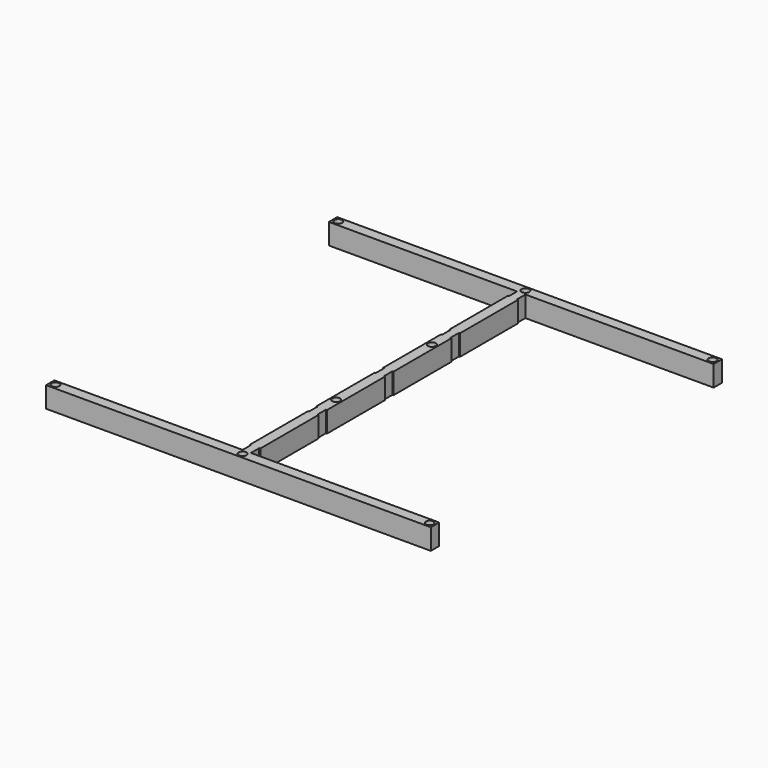
from build123d import *

# Parameters (mm, degrees)
F0_R     = 19.05
F0_W     = 2.54
F0_H     = 6.35
F1_DEPTH = 101.6


with BuildPart() as f1:
    # F0 (on Top) → F1 (new body)
    with BuildSketch(Plane.XY):
        Polygon((-965.2, 1680.237689), (-50.8, 1680.237689), (-48.26, 1680.237689), (-48.26, 1686.587689), (-45.72, 1686.587689), (-45.72, 1680.237689), (-45.72, 1629.437689), (-45.72, 1623.087689), (-48.26, 1623.087689), (-48.26, 1629.437689), (-50.8, 1629.437689), (-50.8, 1273.837689), (-48.26, 1273.837689), (-48.26, 1280.187689), (-45.72, 1280.187689), (-45.72, 1273.837689), (-45.72, 1223.037689), (-45.72, 1216.687689), (-48.26, 1216.687689), (-48.26, 1223.037689), (-50.8, 1223.037689), (-50.8, 1134.137689), (-50.8, 867.437689), (-48.26, 867.437689), (-48.26, 873.787689), (-45.72, 873.787689), (-45.72, 867.437689), (-45.72, 816.637689), (-45.72, 810.287689), (-48.26, 810.287689), (-48.26, 816.637689), (-50.8, 816.637689), (-50.8, 549.937689), (-50.8, 461.037689), (-48.26, 461.037689), (-48.26, 467.387689), (-45.72, 467.387689), (-45.72, 461.037689), (-45.72, 410.237689), (-45.72, 403.887689), (-48.26, 403.887689), (-48.26, 410.237689), (-50.8, 410.237689), (-50.8, 54.637689), (-48.26, 54.637689), (-48.26, 60.987689), (-45.72, 60.987689), (-45.72, 54.637689), (-45.72, 3.837689), (-45.72, -2.512311), (-48.26, -2.512311), (-48.26, 3.837689), (-50.8, 3.837689), (-939.8, 3.837689), (-965.2, 3.837689), (-965.2, -46.962311), (-50.8, -46.962311), (0, -46.962311), (914.4, -46.962311), (914.4, 3.837689), (0, 3.837689), (-2.54, 3.837689), (-2.54, -2.512311), (-5.08, -2.512311), (-5.08, 3.837689), (-5.08, 54.637689), (-5.08, 60.987689), (-2.54, 60.987689), (-2.54, 54.637689), (0, 54.637689), (0, 410.237689), (-2.54, 410.237689), (-2.54, 403.887689), (-5.08, 403.887689), (-5.08, 410.237689), (-5.08, 461.037689), (-5.08, 467.387689), (-2.54, 467.387689), (-2.54, 461.037689), (0, 461.037689), (0, 816.637689), (-2.54, 816.637689), (-2.54, 810.287689), (-5.08, 810.287689), (-5.08, 816.637689), (-5.08, 867.437689), (-5.08, 873.787689), (-2.54, 873.787689), (-2.54, 867.437689), (0, 867.437689), (0, 1223.037689), (-2.54, 1223.037689), (-2.54, 1216.687689), (-5.08, 1216.687689), (-5.08, 1223.037689), (-5.08, 1273.837689), (-5.08, 1280.187689), (-2.54, 1280.187689), (-2.54, 1273.837689), (0, 1273.837689), (0, 1629.437689), (-2.54, 1629.437689), (-2.54, 1623.087689), (-5.08, 1623.087689), (-5.08, 1629.437689), (-5.08, 1680.237689), (-5.08, 1686.587689), (-2.54, 1686.587689), (-2.54, 1680.237689), (0, 1680.237689), (914.4, 1680.237689), (914.4, 1731.037689), (0, 1731.037689), (-25.4, 1731.037689), (-50.8, 1731.037689), (-965.2, 1731.037689), align=None)
        with Locations((-939.8, -21.562311)):
            Circle(F0_R, mode=Mode.SUBTRACT)
        with Locations((-25.4, -21.562311)):
            Circle(F0_R, mode=Mode.SUBTRACT)
        with Locations((889, -21.562311)):
            Circle(F0_R, mode=Mode.SUBTRACT)
        with Locations((-25.4, 549.937689)):
            Circle(F0_R, mode=Mode.SUBTRACT)
        with Locations((-939.549985, 1705.637689)):
            Circle(F0_R, mode=Mode.SUBTRACT)
        with Locations((-25.4, 1134.137689)):
            Circle(F0_R, mode=Mode.SUBTRACT)
        with Locations((-25.4, 1705.637689)):
            Circle(F0_R, mode=Mode.SUBTRACT)
        with Locations((889, 1705.637689)):
            Circle(F0_R, mode=Mode.SUBTRACT)
        with Locations((-46.99, 0.662689)):
            Rectangle(F0_W, F0_H)
        with Locations((-3.81, 0.662689)):
            Rectangle(F0_W, F0_H)
        with Locations((-3.81, 57.812689)):
            Rectangle(F0_W, F0_H)
        with Locations((-46.99, 57.812689)):
            Rectangle(F0_W, F0_H)
        with Locations((-46.99, 464.212689)):
            Rectangle(F0_W, F0_H)
        with Locations((-46.99, 407.062689)):
            Rectangle(F0_W, F0_H)
        with Locations((-3.81, 407.062689)):
            Rectangle(F0_W, F0_H)
        with Locations((-3.81, 464.212689)):
            Rectangle(F0_W, F0_H)
        with Locations((-46.99, 870.612689)):
            Rectangle(F0_W, F0_H)
        with Locations((-3.81, 870.612689)):
            Rectangle(F0_W, F0_H)
        with Locations((-3.81, 813.462689)):
            Rectangle(F0_W, F0_H)
        with Locations((-46.99, 813.462689)):
            Rectangle(F0_W, F0_H)
        with Locations((-46.99, 1277.012689)):
            Rectangle(F0_W, F0_H)
        with Locations((-3.81, 1277.012689)):
            Rectangle(F0_W, F0_H)
        with Locations((-3.81, 1219.862689)):
            Rectangle(F0_W, F0_H)
        with Locations((-46.99, 1219.862689)):
            Rectangle(F0_W, F0_H)
        with Locations((-46.99, 1683.412689)):
            Rectangle(F0_W, F0_H)
        with Locations((-3.81, 1683.412689)):
            Rectangle(F0_W, F0_H)
        with Locations((-3.81, 1626.262689)):
            Rectangle(F0_W, F0_H)
        with Locations((-46.99, 1626.262689)):
            Rectangle(F0_W, F0_H)
    extrude(amount=F1_DEPTH)


solid = f1.part
